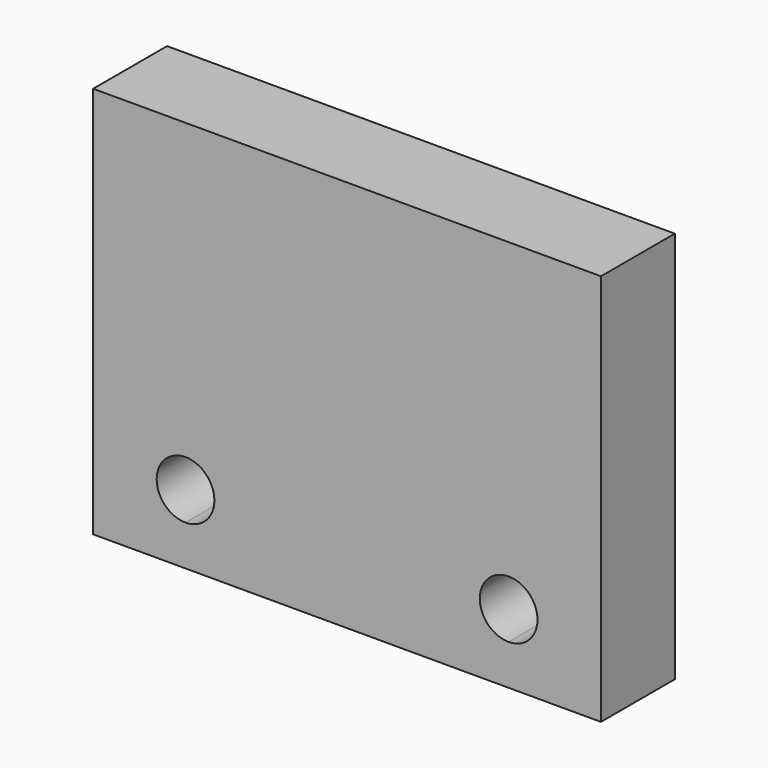
from build123d import *

# Parameters (mm, degrees)
F0_W     = 6.35
F0_H     = 1.5875
F0_W_2   = 22.225
F1_DEPTH = 6.35


with BuildPart() as f1:
    # F0 (on Front) → F1 (new body)
    with BuildSketch(Plane.XZ):
        Polygon((18.432639, 21.365104), (-16.492361, 21.365104), (-16.492361, -4.034896), (-10.142361, -4.034896), (12.082639, -4.034896), (18.432639, -4.034896), align=None)
        with BuildLine():
            ThreePointArc((-6.967361, -0.859896), (-7.897297, -3.10496), (-10.142361, -4.034896))
            ThreePointArc((-10.142361, -4.034896), (-12.387425, 1.385168), (-6.967361, -0.859896))
        make_face(mode=Mode.SUBTRACT)
        with BuildLine():
            ThreePointArc((15.257639, -0.859896), (14.327703, -3.10496), (12.082639, -4.034896))
            ThreePointArc((12.082639, -4.034896), (9.837575, 1.385168), (15.257639, -0.859896))
        make_face(mode=Mode.SUBTRACT)
        with Locations((-13.317361, -4.828646)):
            Rectangle(F0_W, F0_H)
        with Locations((0.970139, -4.828646)):
            Rectangle(F0_W_2, F0_H)
        with Locations((15.257639, -4.828646)):
            Rectangle(F0_W, F0_H)
        with BuildLine():
            ThreePointArc((15.257639, -0.859896), (9.837575, 1.385168), (12.082639, -4.034896))
            ThreePointArc((12.082639, -4.034896), (14.327703, -3.10496), (15.257639, -0.859896))
        make_face()
        with BuildLine():
            ThreePointArc((14.067014, -0.859896), (13.485804, -2.263061), (12.082639, -2.844271))
            ThreePointArc((12.082639, -2.844271), (10.098264, -0.859896), (12.082639, 1.124479))
            ThreePointArc((12.082639, 1.124479), (13.485804, 0.543269), (14.067014, -0.859896))
        make_face(mode=Mode.SUBTRACT)
        with BuildLine():
            ThreePointArc((-6.967361, -0.859896), (-12.387425, 1.385168), (-10.142361, -4.034896))
            ThreePointArc((-10.142361, -4.034896), (-7.897297, -3.10496), (-6.967361, -0.859896))
        make_face()
        with BuildLine():
            ThreePointArc((-8.157986, -0.859896), (-8.739196, -2.263061), (-10.142361, -2.844271))
            ThreePointArc((-10.142361, -2.844271), (-12.126736, -0.859896), (-10.142361, 1.124479))
            ThreePointArc((-10.142361, 1.124479), (-8.739196, 0.543269), (-8.157986, -0.859896))
        make_face(mode=Mode.SUBTRACT)
    extrude(amount=F1_DEPTH)


solid = f1.part
